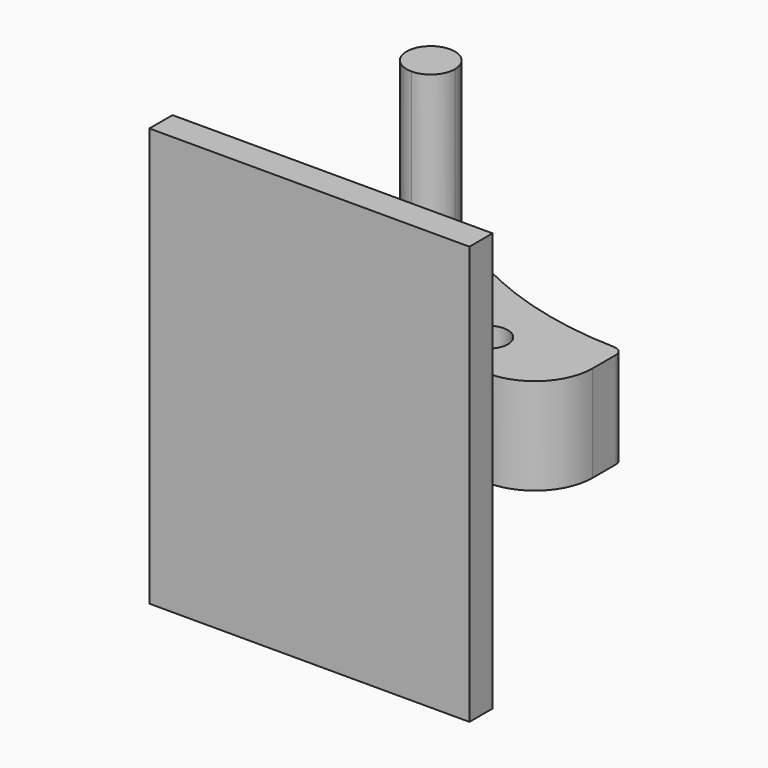
from build123d import *

# Parameters (mm, degrees)
F1_DEPTH  = 50
F2_DEPTH  = 100
F3_R      = 5
F4_R      = 5
F5_D      = 20
F7_D      = 5
F8_R      = 30
F10_DEPTH = 50
F11_W     = 166
F11_H     = 217
F12_DEPTH = 15


with BuildPart() as f1:
    # F0 (on Top) → F1 (new body)
    with BuildSketch(Plane.XY):
        with BuildLine():
            Line((-25, 25), (50, 25))
            ThreePointArc((50, 25), (4.5245703057, 30.5982812227), (-38.2352941176, 47.0588235294))
            ThreePointArc((-38.2352941176, 47.0588235294), (-28.5626768572, 37.8623938857), (-25, 25))
        make_face()
        with BuildLine():
            Line((-50, 0), (-50, -25))
            Line((-50, -25), (50, -25))
            Line((50, -25), (50, 25))
            Line((50, 25), (-25, 25))
            ThreePointArc((-25, 25), (-32.3223304703, 7.3223304703), (-50, 0))
        make_face()
        with BuildLine():
            ThreePointArc((-38.2352941176, 47.0588235294), (-74.2535625036, 31.0633906259), (-50, 0))
            Line((-50, 0), (-50, 12.5))
            ThreePointArc((-50, 12.5), (-58.8388347648, 33.8388347648), (-37.5, 25))
            Line((-37.5, 25), (-25, 25))
            ThreePointArc((-25, 25), (-28.5626768572, 37.8623938857), (-38.2352941176, 47.0588235294))
        make_face()
        with BuildLine():
            Line((-50, 12.5), (-50, 0))
            ThreePointArc((-50, 0), (-32.3223304703, 7.3223304703), (-25, 25))
            Line((-25, 25), (-37.5, 25))
            ThreePointArc((-37.5, 25), (-41.1611652352, 16.1611652352), (-50, 12.5))
        make_face()
    extrude(amount=-F1_DEPTH)

    # F3
    f3_edges = [f1.edges().sort_by_distance(p)[0] for p in [
        (-37.5, 25, -25),
        (-62.5, 25, 0),
        (-62.5, 25, -50),
    ]]
    fillet(f3_edges, radius=F3_R)

    # F4
    f4_edges = [f1.edges().sort_by_distance(p)[0] for p in [
        (-50, -25, -25),
        (50, 25, -25),
    ]]
    fillet(f4_edges, radius=F4_R)

    # F5 (through all)
    with Locations(Plane.XY):
        with Locations((0, 0)):
            Hole(F5_D / 2)

    # F7 (through all)
    with Locations(Plane(origin=(0, 0, -50), x_dir=(1, 0, 0), z_dir=(0, 0, -1))):
        with Locations((-43.2016261238, -45.9232433585), (-67.7983738762, -37.9312755504), (-67.7983738762, -12.0687244496), (-43.2016261238, -4.0767566415), (-28, -25)):
            Hole(F7_D / 2)

    # F8
    f8_edges = [f1.edges().sort_by_distance(p)[0] for p in [
        (50, -25, -25),
    ]]
    fillet(f8_edges, radius=F8_R)


with BuildPart() as f2:
    # F0 (on Top) → F2 (new body, symmetric)
    with BuildSketch(Plane.XY):
        with BuildLine():
            ThreePointArc((-37.5, 25), (-58.8388347648, 33.8388347648), (-50, 12.5))
            Line((-50, 12.5), (-50, 25))
            Line((-50, 25), (-37.5, 25))
        make_face()
        with BuildLine():
            Line((-50, 25), (-50, 12.5))
            ThreePointArc((-50, 12.5), (-41.1611652352, 16.1611652352), (-37.5, 25))
            Line((-37.5, 25), (-50, 25))
        make_face()
    extrude(amount=F2_DEPTH, both=True)


with BuildPart() as f10:
    # F9 (on face) → F10 (new body)
    with BuildSketch(Plane.XZ.offset(25)):
        Polygon((-11.9197796978, -15.5884572681), (-11.9197796978, -5.1961524227), (-20.9197796978, 0), (-29.9197796978, -5.1961524227), (-29.9197796978, -15.5884572681), (-20.9197796978, -20.7846096908), align=None)
    extrude(amount=F10_DEPTH)


with BuildPart() as f12:
    # F11 (on face) → F12 (new body)
    with BuildSketch(Plane.XZ.offset(75)):
        with Locations((-20.9197796978, -10.3923048454)):
            Rectangle(F11_W, F11_H)
        Polygon((-11.9197796978, -15.5884572681), (-20.9197796978, -20.7846096908), (-29.9197796978, -15.5884572681), (-29.9197796978, -5.1961524227), (-20.9197796978, 0), (-11.9197796978, -5.1961524227), align=None, mode=Mode.SUBTRACT)
        Polygon((-29.9197796978, -15.5884572681), (-20.9197796978, -20.7846096908), (-11.9197796978, -15.5884572681), (-11.9197796978, -5.1961524227), (-20.9197796978, 0), (-29.9197796978, -5.1961524227), align=None)
    extrude(amount=F12_DEPTH)


solid = Compound([f1.part, f2.part, f10.part, f12.part])
